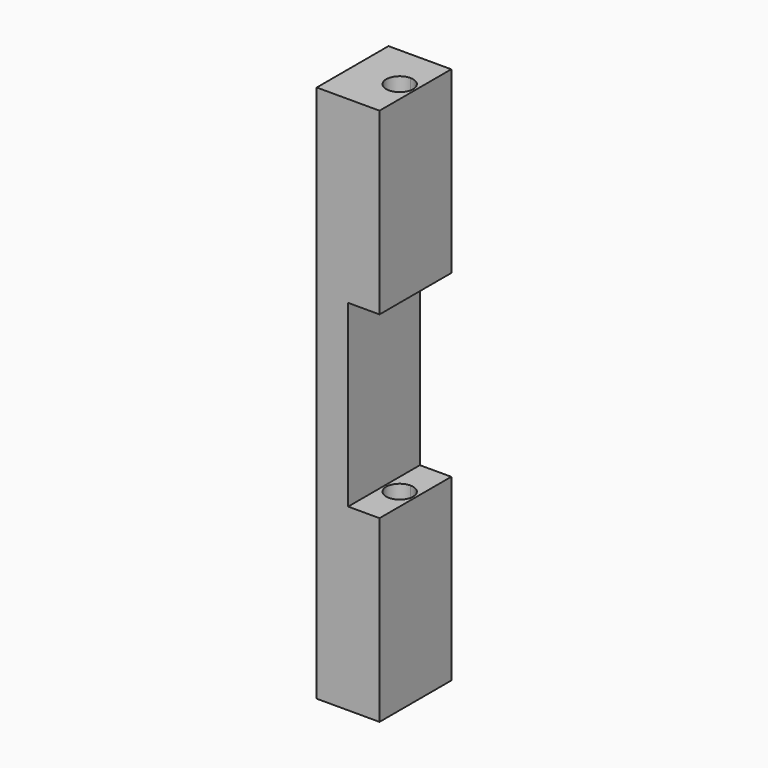
from build123d import *

# Parameters (mm, degrees)
F1_DEPTH = 25.4
F3_DEPTH = 152.401


with BuildPart() as f1:
    # F0 (on Front) → F1 (new body)
    with BuildSketch(Plane.XZ):
        Polygon((-8.89, -76.2), (8.89, -76.2), (8.89, -25.4), (0, -25.4), (0, 25.4), (8.89, 25.4), (8.89, 76.2), (-8.89, 76.2), align=None)
    extrude(amount=F1_DEPTH)

    # F2 (on face) → F3 (cut, through all)
    with BuildSketch(Plane.XY.offset(76.2)):
        with BuildLine():
            ThreePointArc((4.445, -8.89), (1.750923, -15.394077), (8.255, -12.7))
            ThreePointArc((8.255, -12.7), (7.139077, -10.005923), (4.445, -8.89))
        make_face()
    extrude(amount=-F3_DEPTH, mode=Mode.SUBTRACT)


solid = f1.part
